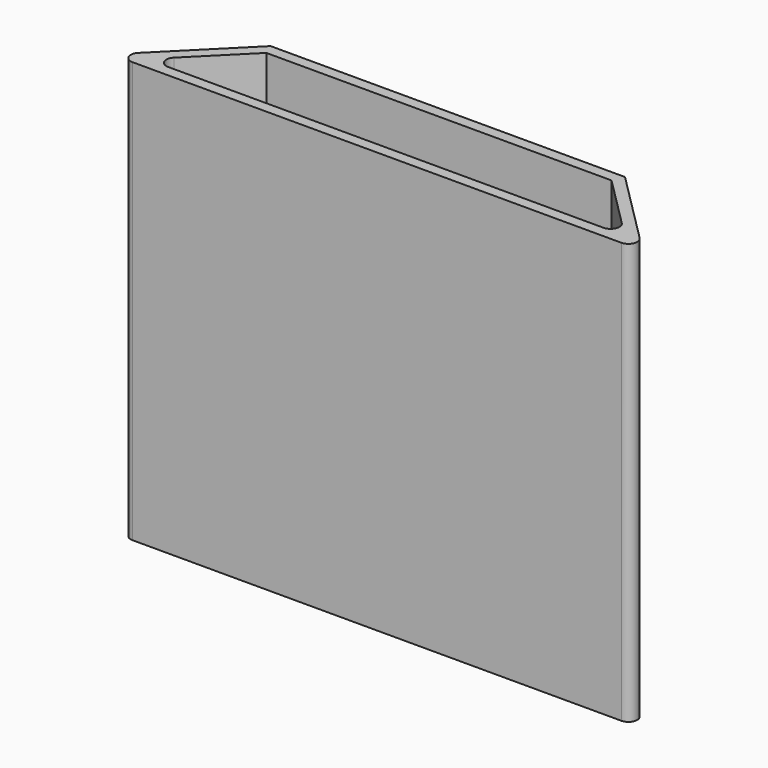
from build123d import *

# Parameters (mm, degrees)
F1_DEPTH = 241.3
F2_R     = 5.08


with BuildPart() as f1:
    # F0 (on Top) → F1 (new body)
    with BuildSketch(Plane.XY):
        Polygon((50.8, 50.8), (0, 0), (304.8, 0), (254, 50.8), align=None)
        Polygon((289.469744, 6.35), (15.330256, 6.35), (53.430256, 44.45), (251.369744, 44.45), align=None, mode=Mode.SUBTRACT)
    extrude(amount=F1_DEPTH)

    # F2
    f2_edges = [f1.edges().sort_by_distance(p)[0] for p in [
        (0, 0, 120.65),
        (15.330256, 6.35, 120.65),
        (304.8, 0, 120.65),
        (289.469744, 6.35, 120.65),
    ]]
    fillet(f2_edges, radius=F2_R)


solid = f1.part
